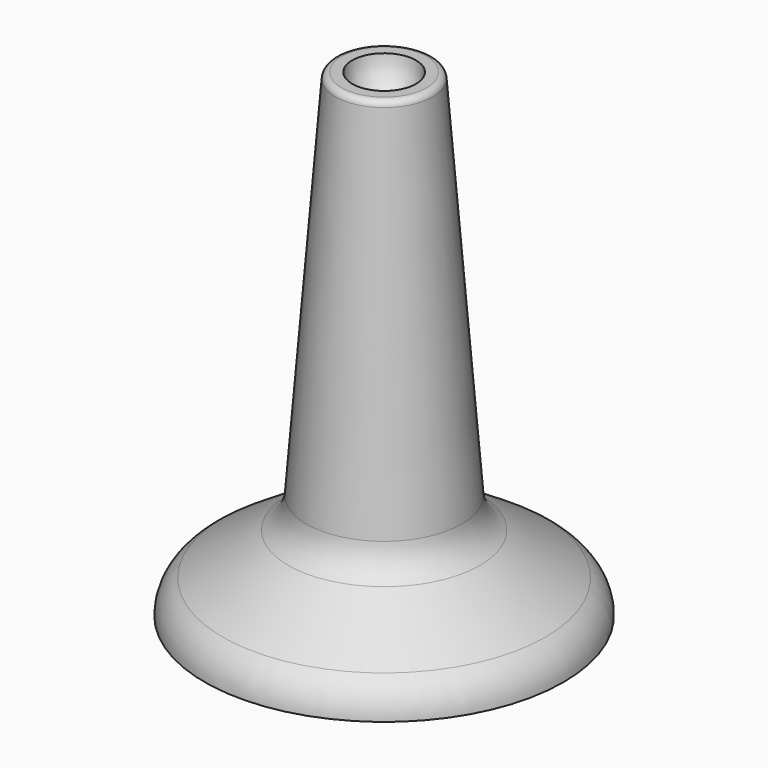
from build123d import *


with BuildPart() as f1:
    # F0 (on Front) → F1 (revolve)
    with BuildSketch(Plane.XZ):
        with BuildLine():
            ThreePointArc((2.54, 38.1), (1.796051, 36.303949), (0, 35.56))
            Line((0, 35.56), (0, 0))
            Line((0, 0), (14.2875, 0))
            ThreePointArc((14.2875, 0), (13.899108, 1.521657), (12.828956, 2.671031))
            Line((12.828956, 2.671031), (7.631716, 6.010877))
            ThreePointArc((7.631716, 6.010877), (6.623452, 7.052022), (6.182959, 8.4328))
            Line((6.182959, 8.4328), (3.884944, 37.631857))
            ThreePointArc((3.884944, 37.631857), (3.72334, 37.965036), (3.37851, 38.1))
            Line((3.37851, 38.1), (2.54, 38.1))
        make_face()
    revolve(axis=Axis((0, 0, 19.05), (0, 0, -1)))


solid = f1.part
